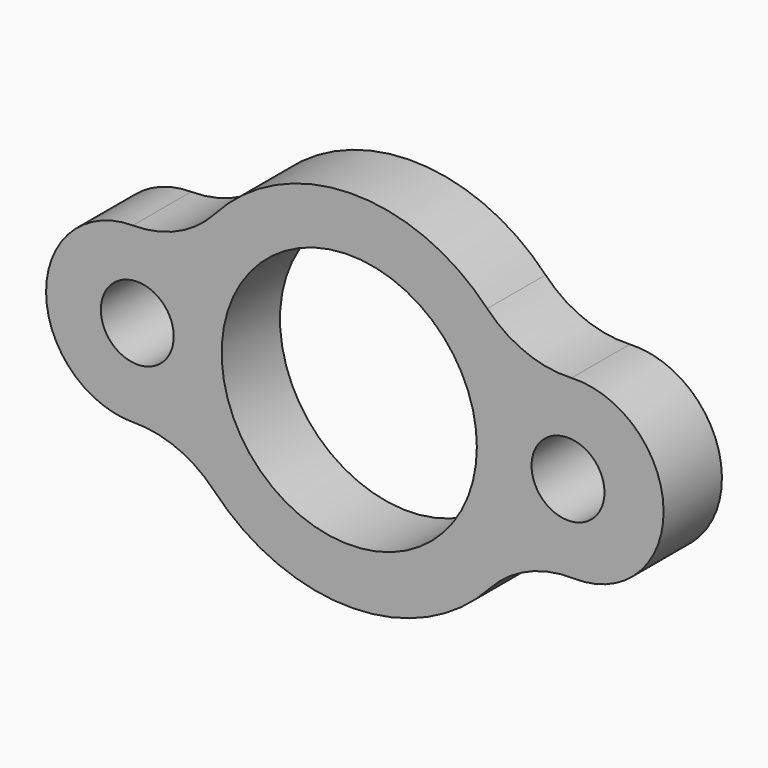
from build123d import *

# Parameters (mm, degrees)
F0_R     = 12.7
F0_R_2   = 44.45
F1_DEPTH = 25.4


with BuildPart() as f1:
    # F0 (on Front) → F1 (new body)
    with BuildSketch(Plane.XZ):
        with BuildLine():
            ThreePointArc((-75.111655, -31.361354), (-59.876409, -34.352973), (-47.099732, -43.174483))
            ThreePointArc((-47.099732, -43.174483), (1.215218, -63.495205), (48.976236, -41.904669))
            ThreePointArc((48.976236, -41.904669), (62.188252, -32.451379), (78.137377, -29.361482))
            ThreePointArc((78.137377, -29.361482), (87.518783, -28.11987), (96.073709, -24.074422))
            ThreePointArc((96.073709, -24.074422), (107.917338, 10.963878), (77.405308, 31.867706))
            ThreePointArc((77.405308, 31.867706), (61.459869, 34.546125), (48.061075, 43.596169))
            ThreePointArc((48.061075, 43.596169), (0.226646, 63.504724), (-46.813317, 41.785494))
            ThreePointArc((-46.813317, 41.785494), (-59.725901, 32.289403), (-75.401395, 28.944343))
            ThreePointArc((-75.401395, 28.944343), (-105.605805, -1.354319), (-75.111655, -31.361354))
        make_face()
        with Locations((-73.84116, -0.485192)):
            Circle(F0_R, mode=Mode.SUBTRACT)
        Circle(F0_R_2, mode=Mode.SUBTRACT)
        with Locations((76.198455, 0.485192)):
            Circle(F0_R, mode=Mode.SUBTRACT)
    extrude(amount=F1_DEPTH)


solid = f1.part
